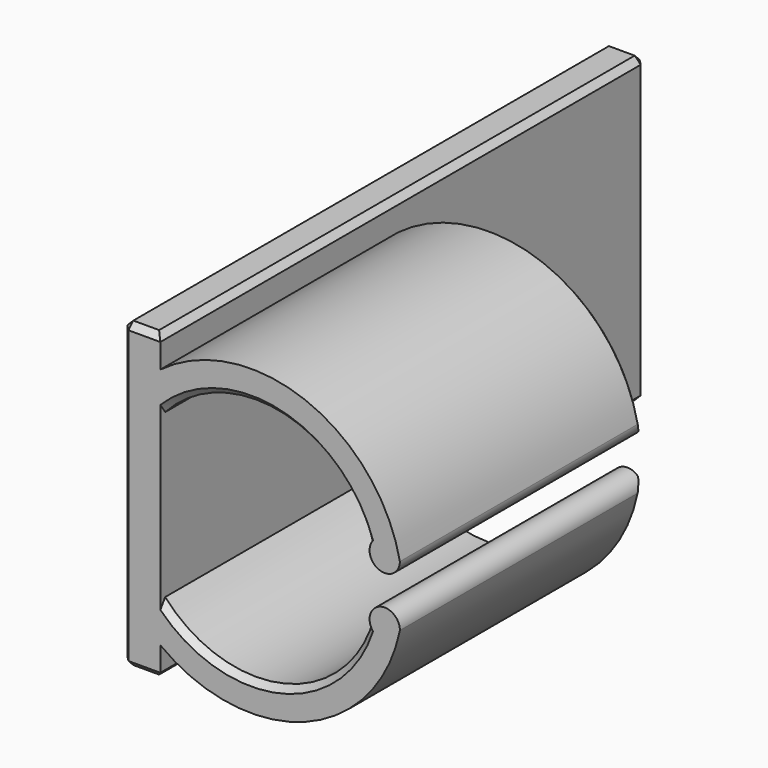
from build123d import *

# Parameters (mm, degrees)
SKETCH001_W     = 2.5
SKETCH001_H     = 40
PAD001_DEPTH    = 20
PAD002_DEPTH    = 20
CHAMFER001_SIZE = 0.4


with BuildPart() as part:
    # Sketch001 → Pad001 (new body)
    with BuildSketch(Plane.XY):
        with Locations((18.401947, 24.9952)):
            Rectangle(SKETCH001_W, SKETCH001_H)
    extrude(amount=PAD001_DEPTH)

    # Sketch002 (on Face4 of Pad001) → Pad002 (join)
    with BuildSketch(Plane.XZ.offset(-4.9952)):
        with BuildLine():
            ThreePointArc((35.449906, 12), (29.202457, 19.348469), (19.651947, 18))
            Line((19.651947, 18), (19.651947, 15.367324))
            ThreePointArc((33.449906, 12), (27.56058, 17.820824), (19.651947, 15.367324))
            ThreePointArc((33.449906, 12), (34.449906, 11), (35.449906, 12))
        make_face()
        with BuildLine():
            ThreePointArc((19.651947, 2), (29.202457, 0.651531), (35.449906, 8))
            ThreePointArc((35.449906, 8), (34.449906, 9), (33.449906, 8))
            ThreePointArc((19.651947, 4.632676), (27.56058, 2.179176), (33.449906, 8))
            Line((19.651947, 4.632676), (19.651947, 2))
        make_face()
    extrude(amount=-PAD002_DEPTH)

    # Chamfer001
    chamfer001_edges = [part.edges().sort_by_distance(p)[0] for p in [
        (19.651947, 24.9952, 20),
        (18.401947, 44.9952, 20),
        (17.151947, 24.9952, 20),
        (18.401947, 4.9952, 20),
        (19.651947, 24.9952, 0),
        (18.401947, 44.9952, 0),
        (17.151947, 24.9952, 0),
        (18.401947, 4.9952, 0),
        (19.651947, 44.9952, 10),
        (17.151947, 44.9952, 10),
        (17.151947, 4.9952, 10),
        (29.202457, 24.9952, 19.348469),
        (29.202457, 24.9952, 0.651531),
        (27.56058, 24.9952, 17.820824),
        (27.56058, 24.9952, 2.179176),
        (27.56058, 4.9952, 17.820824),
        (27.56058, 4.9952, 2.179176),
    ]]
    chamfer(chamfer001_edges, length=CHAMFER001_SIZE)


solid = part.part
